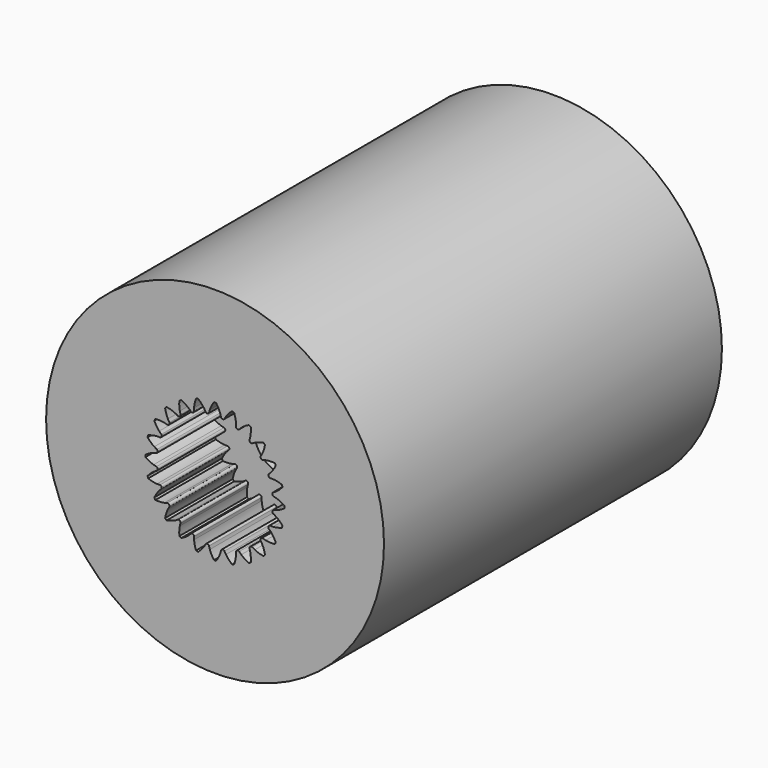
from build123d import *

# Parameters (mm, degrees)
SKETCH020_R             = 6
PAD008_DEPTH            = 3
POCKET003007_DEPTH      = 3.001
SKETCH021_R             = 6
PAD009_DEPTH            = 12
POCKET003008_DEPTH      = 7
SKETCH023_R             = 1
POCKET003009_DEPTH      = 8.001
BODY003_PLACEMENT_ANGLE = 90


with BuildPart() as part:
    # Sketch020 → Pad008 (new body)
    with BuildSketch(Plane.XY):
        Circle(SKETCH020_R)
    extrude(amount=PAD008_DEPTH)

    # InvoluteGear → Pocket003007 (cut, through all)
    with BuildSketch(Plane.XY):
        with BuildLine():
            add(Edge.make_bspline(
                [(2.079233, -0.211872), (2.107073, -0.207076), (2.142014, -0.198903), (2.183367, -0.18514)],
                knots=[0, 0, 0, 0, 1, 1, 1, 1], degree=3))
            add(Edge.make_bspline(
                [(2.183367, -0.18514), (2.260451, -0.159438), (2.358462, -0.114868), (2.469874, -0.038347)],
                knots=[0, 0, 0, 0, 1, 1, 1, 1], degree=3))
            ThreePointArc((2.469874, -0.038347), (2.470172, 0), (2.469874, 0.038347))
            add(Edge.make_bspline(
                [(2.469874, 0.038347), (2.358462, 0.114868), (2.260451, 0.159438), (2.183367, 0.18514)],
                knots=[0, 0, 0, 0, 1, 1, 1, 1], degree=3))
            add(Edge.make_bspline(
                [(2.183367, 0.18514), (2.142014, 0.198903), (2.107073, 0.207076), (2.079249, 0.211868)],
                knots=[0, 0, 0, 0, 1, 1, 1, 1], degree=3))
            ThreePointArc((2.079249, 0.211868), (2.036538, 0.268108), (2.063222, 0.333492))
            add(Edge.make_bspline(
                [(2.063222, 0.333492), (2.088872, 0.34533), (2.120507, 0.362269), (2.156888, 0.386265)],
                knots=[0, 0, 0, 0, 1, 1, 1, 1], degree=3))
            add(Edge.make_bspline(
                [(2.156888, 0.386265), (2.224694, 0.431043), (2.307829, 0.499461), (2.39564, 0.60221)],
                knots=[0, 0, 0, 0, 1, 1, 1, 1], degree=3))
            ThreePointArc((2.39564, 0.60221), (2.386003, 0.639327), (2.37579, 0.676291))
            add(Edge.make_bspline(
                [(2.37579, 0.676291), (2.24837, 0.721368), (2.142163, 0.739053), (2.061052, 0.743929)],
                knots=[0, 0, 0, 0, 1, 1, 1, 1], degree=3))
            add(Edge.make_bspline(
                [(2.061052, 0.743929), (2.017547, 0.746519), (1.981681, 0.745371), (1.953565, 0.742798)],
                knots=[0, 0, 0, 0, 1, 1, 1, 1], degree=3))
            ThreePointArc((1.953565, 0.742798), (1.897753, 0.786067), (1.906605, 0.85613))
            add(Edge.make_bspline(
                [(1.906605, 0.85613), (1.928317, 0.874203), (1.95449, 0.898752), (1.983421, 0.931347)],
                knots=[0, 0, 0, 0, 1, 1, 1, 1], degree=3))
            add(Edge.make_bspline(
                [(1.983421, 0.931347), (2.037327, 0.992148), (2.099922, 1.079753), (2.158147, 1.201728)],
                knots=[0, 0, 0, 0, 1, 1, 1, 1], degree=3))
            ThreePointArc((2.158147, 1.201728), (2.139231, 1.235086), (2.1198, 1.268146))
            add(Edge.make_bspline(
                [(2.1198, 1.268146), (1.985054, 1.278709), (1.877889, 1.268303), (1.798281, 1.252019)],
                knots=[0, 0, 0, 0, 1, 1, 1, 1], degree=3))
            add(Edge.make_bspline(
                [(1.798281, 1.252019), (1.755587, 1.243262), (1.721241, 1.23287), (1.694748, 1.223108)],
                knots=[0, 0, 0, 0, 1, 1, 1, 1], degree=3))
            ThreePointArc((1.694748, 1.223108), (1.629639, 1.250457), (1.620056, 1.320423))
            add(Edge.make_bspline(
                [(1.620056, 1.320423), (1.636351, 1.343501), (1.655278, 1.373987), (1.674787, 1.41296)],
                knots=[0, 0, 0, 0, 1, 1, 1, 1], degree=3))
            add(Edge.make_bspline(
                [(1.674787, 1.41296), (1.71112, 1.485641), (1.748908, 1.586461), (1.77358, 1.719349)],
                knots=[0, 0, 0, 0, 1, 1, 1, 1], degree=3))
            ThreePointArc((1.77358, 1.719349), (1.746675, 1.746675), (1.719349, 1.77358))
            add(Edge.make_bspline(
                [(1.719349, 1.77358), (1.586461, 1.748908), (1.485641, 1.71112), (1.41296, 1.674787)],
                knots=[0, 0, 0, 0, 1, 1, 1, 1], degree=3))
            add(Edge.make_bspline(
                [(1.41296, 1.674787), (1.373987, 1.655278), (1.343501, 1.636351), (1.320438, 1.620064)],
                knots=[0, 0, 0, 0, 1, 1, 1, 1], degree=3))
            ThreePointArc((1.320438, 1.620064), (1.250469, 1.62963), (1.223103, 1.694732))
            add(Edge.make_bspline(
                [(1.223103, 1.694732), (1.23287, 1.721241), (1.243262, 1.755587), (1.252019, 1.798281)],
                knots=[0, 0, 0, 0, 1, 1, 1, 1], degree=3))
            add(Edge.make_bspline(
                [(1.252019, 1.798281), (1.268303, 1.877889), (1.278709, 1.985054), (1.268146, 2.1198)],
                knots=[0, 0, 0, 0, 1, 1, 1, 1], degree=3))
            ThreePointArc((1.268146, 2.1198), (1.235086, 2.139231), (1.201728, 2.158147))
            add(Edge.make_bspline(
                [(1.201728, 2.158147), (1.079753, 2.099922), (0.992148, 2.037327), (0.931347, 1.983421)],
                knots=[0, 0, 0, 0, 1, 1, 1, 1], degree=3))
            add(Edge.make_bspline(
                [(0.931347, 1.983421), (0.898752, 1.95449), (0.874203, 1.928317), (0.856141, 1.906616)],
                knots=[0, 0, 0, 0, 1, 1, 1, 1], degree=3))
            ThreePointArc((0.856141, 1.906616), (0.786081, 1.897747), (0.742798, 1.953548))
            add(Edge.make_bspline(
                [(0.742798, 1.953548), (0.745371, 1.981681), (0.746519, 2.017547), (0.743929, 2.061052)],
                knots=[0, 0, 0, 0, 1, 1, 1, 1], degree=3))
            add(Edge.make_bspline(
                [(0.743929, 2.061052), (0.739053, 2.142163), (0.721368, 2.24837), (0.676291, 2.37579)],
                knots=[0, 0, 0, 0, 1, 1, 1, 1], degree=3))
            ThreePointArc((0.676291, 2.37579), (0.639327, 2.386003), (0.60221, 2.39564))
            add(Edge.make_bspline(
                [(0.60221, 2.39564), (0.499461, 2.307829), (0.431043, 2.224694), (0.386265, 2.156888)],
                knots=[0, 0, 0, 0, 1, 1, 1, 1], degree=3))
            add(Edge.make_bspline(
                [(0.386265, 2.156888), (0.362269, 2.120507), (0.34533, 2.088872), (0.3335, 2.063236)],
                knots=[0, 0, 0, 0, 1, 1, 1, 1], degree=3))
            ThreePointArc((0.3335, 2.063236), (0.268123, 2.036536), (0.211872, 2.079233))
            add(Edge.make_bspline(
                [(0.211872, 2.079233), (0.207076, 2.107073), (0.198903, 2.142014), (0.18514, 2.183367)],
                knots=[0, 0, 0, 0, 1, 1, 1, 1], degree=3))
            add(Edge.make_bspline(
                [(0.18514, 2.183367), (0.159438, 2.260451), (0.114868, 2.358462), (0.038347, 2.469874)],
                knots=[0, 0, 0, 0, 1, 1, 1, 1], degree=3))
            ThreePointArc((0.038347, 2.469874), (0, 2.470172), (-0.038347, 2.469874))
            add(Edge.make_bspline(
                [(-0.038347, 2.469874), (-0.114868, 2.358462), (-0.159438, 2.260451), (-0.18514, 2.183367)],
                knots=[0, 0, 0, 0, 1, 1, 1, 1], degree=3))
            add(Edge.make_bspline(
                [(-0.18514, 2.183367), (-0.198903, 2.142014), (-0.207076, 2.107073), (-0.211868, 2.079249)],
                knots=[0, 0, 0, 0, 1, 1, 1, 1], degree=3))
            ThreePointArc((-0.211868, 2.079249), (-0.268108, 2.036538), (-0.333492, 2.063222))
            add(Edge.make_bspline(
                [(-0.333492, 2.063222), (-0.34533, 2.088872), (-0.362269, 2.120507), (-0.386265, 2.156888)],
                knots=[0, 0, 0, 0, 1, 1, 1, 1], degree=3))
            add(Edge.make_bspline(
                [(-0.386265, 2.156888), (-0.431043, 2.224694), (-0.499461, 2.307829), (-0.60221, 2.39564)],
                knots=[0, 0, 0, 0, 1, 1, 1, 1], degree=3))
            ThreePointArc((-0.60221, 2.39564), (-0.639327, 2.386003), (-0.676291, 2.37579))
            add(Edge.make_bspline(
                [(-0.676291, 2.37579), (-0.721368, 2.24837), (-0.739053, 2.142163), (-0.743929, 2.061052)],
                knots=[0, 0, 0, 0, 1, 1, 1, 1], degree=3))
            add(Edge.make_bspline(
                [(-0.743929, 2.061052), (-0.746519, 2.017547), (-0.745371, 1.981681), (-0.742798, 1.953565)],
                knots=[0, 0, 0, 0, 1, 1, 1, 1], degree=3))
            ThreePointArc((-0.742798, 1.953565), (-0.786067, 1.897753), (-0.85613, 1.906605))
            add(Edge.make_bspline(
                [(-0.85613, 1.906605), (-0.874203, 1.928317), (-0.898752, 1.95449), (-0.931347, 1.983421)],
                knots=[0, 0, 0, 0, 1, 1, 1, 1], degree=3))
            add(Edge.make_bspline(
                [(-0.931347, 1.983421), (-0.992148, 2.037327), (-1.079753, 2.099922), (-1.201728, 2.158147)],
                knots=[0, 0, 0, 0, 1, 1, 1, 1], degree=3))
            ThreePointArc((-1.201728, 2.158147), (-1.235086, 2.139231), (-1.268146, 2.1198))
            add(Edge.make_bspline(
                [(-1.268146, 2.1198), (-1.278709, 1.985054), (-1.268303, 1.877889), (-1.252019, 1.798281)],
                knots=[0, 0, 0, 0, 1, 1, 1, 1], degree=3))
            add(Edge.make_bspline(
                [(-1.252019, 1.798281), (-1.243262, 1.755587), (-1.23287, 1.721241), (-1.223108, 1.694748)],
                knots=[0, 0, 0, 0, 1, 1, 1, 1], degree=3))
            ThreePointArc((-1.223108, 1.694748), (-1.250457, 1.629639), (-1.320423, 1.620056))
            add(Edge.make_bspline(
                [(-1.320423, 1.620056), (-1.343501, 1.636351), (-1.373987, 1.655278), (-1.41296, 1.674787)],
                knots=[0, 0, 0, 0, 1, 1, 1, 1], degree=3))
            add(Edge.make_bspline(
                [(-1.41296, 1.674787), (-1.485641, 1.71112), (-1.586461, 1.748908), (-1.719349, 1.77358)],
                knots=[0, 0, 0, 0, 1, 1, 1, 1], degree=3))
            ThreePointArc((-1.719349, 1.77358), (-1.746675, 1.746675), (-1.77358, 1.719349))
            add(Edge.make_bspline(
                [(-1.77358, 1.719349), (-1.748908, 1.586461), (-1.71112, 1.485641), (-1.674787, 1.41296)],
                knots=[0, 0, 0, 0, 1, 1, 1, 1], degree=3))
            add(Edge.make_bspline(
                [(-1.674787, 1.41296), (-1.655278, 1.373987), (-1.636351, 1.343501), (-1.620064, 1.320438)],
                knots=[0, 0, 0, 0, 1, 1, 1, 1], degree=3))
            ThreePointArc((-1.620064, 1.320438), (-1.62963, 1.250469), (-1.694732, 1.223103))
            add(Edge.make_bspline(
                [(-1.694732, 1.223103), (-1.721241, 1.23287), (-1.755587, 1.243262), (-1.798281, 1.252019)],
                knots=[0, 0, 0, 0, 1, 1, 1, 1], degree=3))
            add(Edge.make_bspline(
                [(-1.798281, 1.252019), (-1.877889, 1.268303), (-1.985054, 1.278709), (-2.1198, 1.268146)],
                knots=[0, 0, 0, 0, 1, 1, 1, 1], degree=3))
            ThreePointArc((-2.1198, 1.268146), (-2.139231, 1.235086), (-2.158147, 1.201728))
            add(Edge.make_bspline(
                [(-2.158147, 1.201728), (-2.099922, 1.079753), (-2.037327, 0.992148), (-1.983421, 0.931347)],
                knots=[0, 0, 0, 0, 1, 1, 1, 1], degree=3))
            add(Edge.make_bspline(
                [(-1.983421, 0.931347), (-1.95449, 0.898752), (-1.928317, 0.874203), (-1.906616, 0.856141)],
                knots=[0, 0, 0, 0, 1, 1, 1, 1], degree=3))
            ThreePointArc((-1.906616, 0.856141), (-1.897747, 0.786081), (-1.953548, 0.742798))
            add(Edge.make_bspline(
                [(-1.953548, 0.742798), (-1.981681, 0.745371), (-2.017547, 0.746519), (-2.061052, 0.743929)],
                knots=[0, 0, 0, 0, 1, 1, 1, 1], degree=3))
            add(Edge.make_bspline(
                [(-2.061052, 0.743929), (-2.142163, 0.739053), (-2.24837, 0.721368), (-2.37579, 0.676291)],
                knots=[0, 0, 0, 0, 1, 1, 1, 1], degree=3))
            ThreePointArc((-2.37579, 0.676291), (-2.386003, 0.639327), (-2.39564, 0.60221))
            add(Edge.make_bspline(
                [(-2.39564, 0.60221), (-2.307829, 0.499461), (-2.224694, 0.431043), (-2.156888, 0.386265)],
                knots=[0, 0, 0, 0, 1, 1, 1, 1], degree=3))
            add(Edge.make_bspline(
                [(-2.156888, 0.386265), (-2.120507, 0.362269), (-2.088872, 0.34533), (-2.063236, 0.3335)],
                knots=[0, 0, 0, 0, 1, 1, 1, 1], degree=3))
            ThreePointArc((-2.063236, 0.3335), (-2.036536, 0.268123), (-2.079233, 0.211872))
            add(Edge.make_bspline(
                [(-2.079233, 0.211872), (-2.107073, 0.207076), (-2.142014, 0.198903), (-2.183367, 0.18514)],
                knots=[0, 0, 0, 0, 1, 1, 1, 1], degree=3))
            add(Edge.make_bspline(
                [(-2.183367, 0.18514), (-2.260451, 0.159438), (-2.358462, 0.114868), (-2.469874, 0.038347)],
                knots=[0, 0, 0, 0, 1, 1, 1, 1], degree=3))
            ThreePointArc((-2.469874, 0.038347), (-2.470172, 0), (-2.469874, -0.038347))
            add(Edge.make_bspline(
                [(-2.469874, -0.038347), (-2.358462, -0.114868), (-2.260451, -0.159438), (-2.183367, -0.18514)],
                knots=[0, 0, 0, 0, 1, 1, 1, 1], degree=3))
            add(Edge.make_bspline(
                [(-2.183367, -0.18514), (-2.142014, -0.198903), (-2.107073, -0.207076), (-2.079249, -0.211868)],
                knots=[0, 0, 0, 0, 1, 1, 1, 1], degree=3))
            ThreePointArc((-2.079249, -0.211868), (-2.036538, -0.268108), (-2.063222, -0.333492))
            add(Edge.make_bspline(
                [(-2.063222, -0.333492), (-2.088872, -0.34533), (-2.120507, -0.362269), (-2.156888, -0.386265)],
                knots=[0, 0, 0, 0, 1, 1, 1, 1], degree=3))
            add(Edge.make_bspline(
                [(-2.156888, -0.386265), (-2.224694, -0.431043), (-2.307829, -0.499461), (-2.39564, -0.60221)],
                knots=[0, 0, 0, 0, 1, 1, 1, 1], degree=3))
            ThreePointArc((-2.39564, -0.60221), (-2.386003, -0.639327), (-2.37579, -0.676291))
            add(Edge.make_bspline(
                [(-2.37579, -0.676291), (-2.24837, -0.721368), (-2.142163, -0.739053), (-2.061052, -0.743929)],
                knots=[0, 0, 0, 0, 1, 1, 1, 1], degree=3))
            add(Edge.make_bspline(
                [(-2.061052, -0.743929), (-2.017547, -0.746519), (-1.981681, -0.745371), (-1.953565, -0.742798)],
                knots=[0, 0, 0, 0, 1, 1, 1, 1], degree=3))
            ThreePointArc((-1.953565, -0.742798), (-1.897753, -0.786067), (-1.906605, -0.85613))
            add(Edge.make_bspline(
                [(-1.906605, -0.85613), (-1.928317, -0.874203), (-1.95449, -0.898752), (-1.983421, -0.931347)],
                knots=[0, 0, 0, 0, 1, 1, 1, 1], degree=3))
            add(Edge.make_bspline(
                [(-1.983421, -0.931347), (-2.037327, -0.992148), (-2.099922, -1.079753), (-2.158147, -1.201728)],
                knots=[0, 0, 0, 0, 1, 1, 1, 1], degree=3))
            ThreePointArc((-2.158147, -1.201728), (-2.139231, -1.235086), (-2.1198, -1.268146))
            add(Edge.make_bspline(
                [(-2.1198, -1.268146), (-1.985054, -1.278709), (-1.877889, -1.268303), (-1.798281, -1.252019)],
                knots=[0, 0, 0, 0, 1, 1, 1, 1], degree=3))
            add(Edge.make_bspline(
                [(-1.798281, -1.252019), (-1.755587, -1.243262), (-1.721241, -1.23287), (-1.694748, -1.223108)],
                knots=[0, 0, 0, 0, 1, 1, 1, 1], degree=3))
            ThreePointArc((-1.694748, -1.223108), (-1.629639, -1.250457), (-1.620056, -1.320423))
            add(Edge.make_bspline(
                [(-1.620056, -1.320423), (-1.636351, -1.343501), (-1.655278, -1.373987), (-1.674787, -1.41296)],
                knots=[0, 0, 0, 0, 1, 1, 1, 1], degree=3))
            add(Edge.make_bspline(
                [(-1.674787, -1.41296), (-1.71112, -1.485641), (-1.748908, -1.586461), (-1.77358, -1.719349)],
                knots=[0, 0, 0, 0, 1, 1, 1, 1], degree=3))
            ThreePointArc((-1.77358, -1.719349), (-1.746675, -1.746675), (-1.719349, -1.77358))
            add(Edge.make_bspline(
                [(-1.719349, -1.77358), (-1.586461, -1.748908), (-1.485641, -1.71112), (-1.41296, -1.674787)],
                knots=[0, 0, 0, 0, 1, 1, 1, 1], degree=3))
            add(Edge.make_bspline(
                [(-1.41296, -1.674787), (-1.373987, -1.655278), (-1.343501, -1.636351), (-1.320438, -1.620064)],
                knots=[0, 0, 0, 0, 1, 1, 1, 1], degree=3))
            ThreePointArc((-1.320438, -1.620064), (-1.250469, -1.62963), (-1.223103, -1.694732))
            add(Edge.make_bspline(
                [(-1.223103, -1.694732), (-1.23287, -1.721241), (-1.243262, -1.755587), (-1.252019, -1.798281)],
                knots=[0, 0, 0, 0, 1, 1, 1, 1], degree=3))
            add(Edge.make_bspline(
                [(-1.252019, -1.798281), (-1.268303, -1.877889), (-1.278709, -1.985054), (-1.268146, -2.1198)],
                knots=[0, 0, 0, 0, 1, 1, 1, 1], degree=3))
            ThreePointArc((-1.268146, -2.1198), (-1.235086, -2.139231), (-1.201728, -2.158147))
            add(Edge.make_bspline(
                [(-1.201728, -2.158147), (-1.079753, -2.099922), (-0.992148, -2.037327), (-0.931347, -1.983421)],
                knots=[0, 0, 0, 0, 1, 1, 1, 1], degree=3))
            add(Edge.make_bspline(
                [(-0.931347, -1.983421), (-0.898752, -1.95449), (-0.874203, -1.928317), (-0.856141, -1.906616)],
                knots=[0, 0, 0, 0, 1, 1, 1, 1], degree=3))
            ThreePointArc((-0.856141, -1.906616), (-0.786081, -1.897747), (-0.742798, -1.953548))
            add(Edge.make_bspline(
                [(-0.742798, -1.953548), (-0.745371, -1.981681), (-0.746519, -2.017547), (-0.743929, -2.061052)],
                knots=[0, 0, 0, 0, 1, 1, 1, 1], degree=3))
            add(Edge.make_bspline(
                [(-0.743929, -2.061052), (-0.739053, -2.142163), (-0.721368, -2.24837), (-0.676291, -2.37579)],
                knots=[0, 0, 0, 0, 1, 1, 1, 1], degree=3))
            ThreePointArc((-0.676291, -2.37579), (-0.639327, -2.386003), (-0.60221, -2.39564))
            add(Edge.make_bspline(
                [(-0.60221, -2.39564), (-0.499461, -2.307829), (-0.431043, -2.224694), (-0.386265, -2.156888)],
                knots=[0, 0, 0, 0, 1, 1, 1, 1], degree=3))
            add(Edge.make_bspline(
                [(-0.386265, -2.156888), (-0.362269, -2.120507), (-0.34533, -2.088872), (-0.3335, -2.063236)],
                knots=[0, 0, 0, 0, 1, 1, 1, 1], degree=3))
            ThreePointArc((-0.3335, -2.063236), (-0.268123, -2.036536), (-0.211872, -2.079233))
            add(Edge.make_bspline(
                [(-0.211872, -2.079233), (-0.207076, -2.107073), (-0.198903, -2.142014), (-0.18514, -2.183367)],
                knots=[0, 0, 0, 0, 1, 1, 1, 1], degree=3))
            add(Edge.make_bspline(
                [(-0.18514, -2.183367), (-0.159438, -2.260451), (-0.114868, -2.358462), (-0.038347, -2.469874)],
                knots=[0, 0, 0, 0, 1, 1, 1, 1], degree=3))
            ThreePointArc((-0.038347, -2.469874), (0, -2.470172), (0.038347, -2.469874))
            add(Edge.make_bspline(
                [(0.038347, -2.469874), (0.114868, -2.358462), (0.159438, -2.260451), (0.18514, -2.183367)],
                knots=[0, 0, 0, 0, 1, 1, 1, 1], degree=3))
            add(Edge.make_bspline(
                [(0.18514, -2.183367), (0.198903, -2.142014), (0.207076, -2.107073), (0.211868, -2.079249)],
                knots=[0, 0, 0, 0, 1, 1, 1, 1], degree=3))
            ThreePointArc((0.211868, -2.079249), (0.268108, -2.036538), (0.333492, -2.063222))
            add(Edge.make_bspline(
                [(0.333492, -2.063222), (0.34533, -2.088872), (0.362269, -2.120507), (0.386265, -2.156888)],
                knots=[0, 0, 0, 0, 1, 1, 1, 1], degree=3))
            add(Edge.make_bspline(
                [(0.386265, -2.156888), (0.431043, -2.224694), (0.499461, -2.307829), (0.60221, -2.39564)],
                knots=[0, 0, 0, 0, 1, 1, 1, 1], degree=3))
            ThreePointArc((0.60221, -2.39564), (0.639327, -2.386003), (0.676291, -2.37579))
            add(Edge.make_bspline(
                [(0.676291, -2.37579), (0.721368, -2.24837), (0.739053, -2.142163), (0.743929, -2.061052)],
                knots=[0, 0, 0, 0, 1, 1, 1, 1], degree=3))
            add(Edge.make_bspline(
                [(0.743929, -2.061052), (0.746519, -2.017547), (0.745371, -1.981681), (0.742798, -1.953565)],
                knots=[0, 0, 0, 0, 1, 1, 1, 1], degree=3))
            ThreePointArc((0.742798, -1.953565), (0.786067, -1.897753), (0.85613, -1.906605))
            add(Edge.make_bspline(
                [(0.85613, -1.906605), (0.874203, -1.928317), (0.898752, -1.95449), (0.931347, -1.983421)],
                knots=[0, 0, 0, 0, 1, 1, 1, 1], degree=3))
            add(Edge.make_bspline(
                [(0.931347, -1.983421), (0.992148, -2.037327), (1.079753, -2.099922), (1.201728, -2.158147)],
                knots=[0, 0, 0, 0, 1, 1, 1, 1], degree=3))
            ThreePointArc((1.201728, -2.158147), (1.235086, -2.139231), (1.268146, -2.1198))
            add(Edge.make_bspline(
                [(1.268146, -2.1198), (1.278709, -1.985054), (1.268303, -1.877889), (1.252019, -1.798281)],
                knots=[0, 0, 0, 0, 1, 1, 1, 1], degree=3))
            add(Edge.make_bspline(
                [(1.252019, -1.798281), (1.243262, -1.755587), (1.23287, -1.721241), (1.223108, -1.694748)],
                knots=[0, 0, 0, 0, 1, 1, 1, 1], degree=3))
            ThreePointArc((1.223108, -1.694748), (1.250457, -1.629639), (1.320423, -1.620056))
            add(Edge.make_bspline(
                [(1.320423, -1.620056), (1.343501, -1.636351), (1.373987, -1.655278), (1.41296, -1.674787)],
                knots=[0, 0, 0, 0, 1, 1, 1, 1], degree=3))
            add(Edge.make_bspline(
                [(1.41296, -1.674787), (1.485641, -1.71112), (1.586461, -1.748908), (1.719349, -1.77358)],
                knots=[0, 0, 0, 0, 1, 1, 1, 1], degree=3))
            ThreePointArc((1.719349, -1.77358), (1.746675, -1.746675), (1.77358, -1.719349))
            add(Edge.make_bspline(
                [(1.77358, -1.719349), (1.748908, -1.586461), (1.71112, -1.485641), (1.674787, -1.41296)],
                knots=[0, 0, 0, 0, 1, 1, 1, 1], degree=3))
            add(Edge.make_bspline(
                [(1.674787, -1.41296), (1.655278, -1.373987), (1.636351, -1.343501), (1.620064, -1.320438)],
                knots=[0, 0, 0, 0, 1, 1, 1, 1], degree=3))
            ThreePointArc((1.620064, -1.320438), (1.62963, -1.250469), (1.694732, -1.223103))
            add(Edge.make_bspline(
                [(1.694732, -1.223103), (1.721241, -1.23287), (1.755587, -1.243262), (1.798281, -1.252019)],
                knots=[0, 0, 0, 0, 1, 1, 1, 1], degree=3))
            add(Edge.make_bspline(
                [(1.798281, -1.252019), (1.877889, -1.268303), (1.985054, -1.278709), (2.1198, -1.268146)],
                knots=[0, 0, 0, 0, 1, 1, 1, 1], degree=3))
            ThreePointArc((2.1198, -1.268146), (2.139231, -1.235086), (2.158147, -1.201728))
            add(Edge.make_bspline(
                [(2.158147, -1.201728), (2.099922, -1.079753), (2.037327, -0.992148), (1.983421, -0.931347)],
                knots=[0, 0, 0, 0, 1, 1, 1, 1], degree=3))
            add(Edge.make_bspline(
                [(1.983421, -0.931347), (1.95449, -0.898752), (1.928317, -0.874203), (1.906616, -0.856141)],
                knots=[0, 0, 0, 0, 1, 1, 1, 1], degree=3))
            ThreePointArc((1.906616, -0.856141), (1.897747, -0.786081), (1.953548, -0.742798))
            add(Edge.make_bspline(
                [(1.953548, -0.742798), (1.981681, -0.745371), (2.017547, -0.746519), (2.061052, -0.743929)],
                knots=[0, 0, 0, 0, 1, 1, 1, 1], degree=3))
            add(Edge.make_bspline(
                [(2.061052, -0.743929), (2.142163, -0.739053), (2.24837, -0.721368), (2.37579, -0.676291)],
                knots=[0, 0, 0, 0, 1, 1, 1, 1], degree=3))
            ThreePointArc((2.37579, -0.676291), (2.386003, -0.639327), (2.39564, -0.60221))
            add(Edge.make_bspline(
                [(2.39564, -0.60221), (2.307829, -0.499461), (2.224694, -0.431043), (2.156888, -0.386265)],
                knots=[0, 0, 0, 0, 1, 1, 1, 1], degree=3))
            add(Edge.make_bspline(
                [(2.156888, -0.386265), (2.120507, -0.362269), (2.088872, -0.34533), (2.063236, -0.3335)],
                knots=[0, 0, 0, 0, 1, 1, 1, 1], degree=3))
            ThreePointArc((2.063236, -0.3335), (2.036536, -0.268123), (2.079233, -0.211872))
        make_face()
    extrude(amount=POCKET003007_DEPTH, mode=Mode.SUBTRACT)

    # Sketch021 → Pad009 (join)
    with BuildSketch(Plane.XY.offset(3)):
        Circle(SKETCH021_R)
    extrude(amount=PAD009_DEPTH)

    # Sketch022 → Pocket003008 (cut)
    with BuildSketch(Plane.XY.offset(15)):
        Polygon((1.525, -2.641377), (3.05, 0), (1.525, 2.641377), (-1.525, 2.641377), (-3.05, 0), (-1.525, -2.641377), align=None)
    extrude(amount=-POCKET003008_DEPTH, mode=Mode.SUBTRACT)

    # Sketch023 → Pocket003009 (cut, through all)
    with BuildSketch(Plane.XY.offset(8)):
        Circle(SKETCH023_R)
    extrude(amount=-POCKET003009_DEPTH, mode=Mode.SUBTRACT)


with BuildPart() as part_1:
    # Body003 placement: moved
    add(part.part.moved(Location((0, 47.3, 24.1))).rotate(Axis((0, 47.3, 24.1), (-1, 0, 0)), BODY003_PLACEMENT_ANGLE))


solid = part_1.part
